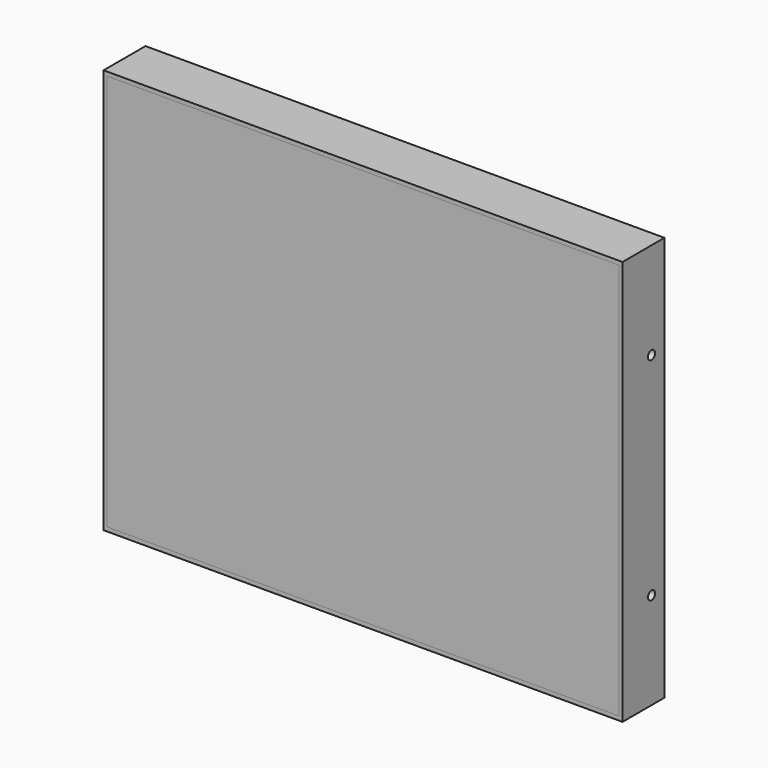
from build123d import *

# Parameters (mm, degrees)
F1_W     = 128.8
F1_H     = 100.5
F1_W_2   = 127
F1_H_2   = 98.5
F2_DEPTH = 6
F3_W     = 128.8
F3_H     = 100.5
F3_W_2   = 119
F3_H_2   = 92.5
F4_DEPTH = 7
F5_R     = 1.1
F6_DEPTH = 128.801
F7_W     = 127
F7_H     = 98.5
F8_DEPTH = 6


with BuildPart() as f2:
    # F1 (on Front) → F2 (new body)
    with BuildSketch(Plane.XZ):
        with Locations((1, -3)):
            Rectangle(F1_W, F1_H)
        with Locations((1, -3)):
            Rectangle(F1_W_2, F1_H_2, mode=Mode.SUBTRACT)
    extrude(amount=F2_DEPTH)

    # F3 (on Front) → F4 (join)
    with BuildSketch(Plane.XZ):
        with Locations((1, -3)):
            Rectangle(F3_W, F3_H)
        with Locations((1, -3)):
            Rectangle(F3_W_2, F3_H_2, mode=Mode.SUBTRACT)
    extrude(amount=-F4_DEPTH)

    # F5 (on face) → F6 (cut, through all)
    with BuildSketch(Plane.YZ.offset(65.4)):
        with Locations((3, -29.25)):
            Circle(F5_R)
        with Locations((3, 23.25)):
            Circle(F5_R)
    extrude(amount=-F6_DEPTH, mode=Mode.SUBTRACT)


with BuildPart() as f8:
    # F7 (on face) → F8 (new body)
    with BuildSketch(Plane.XZ):
        with Locations((1, -3)):
            Rectangle(F7_W, F7_H)
    extrude(amount=F8_DEPTH)


solid = Compound([f2.part, f8.part])
